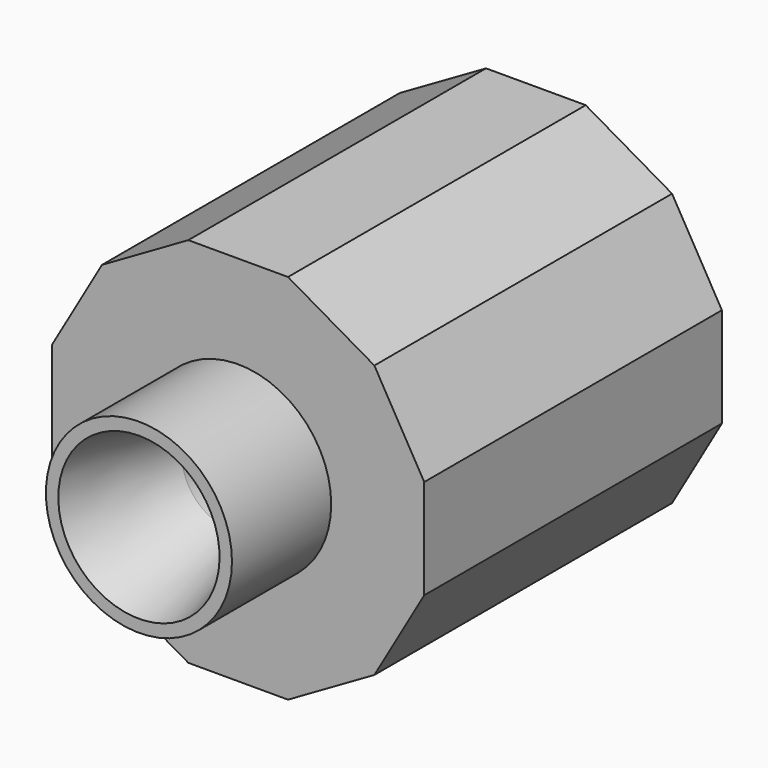
from build123d import *

# Parameters (mm, degrees)
F1_DEPTH = 76.2
F2_R     = 19.05
F3_DEPTH = 25.4
F4_R     = 10.16
F5_DEPTH = 101.6


with BuildPart() as f1:
    # F0 (on Front) → F1 (new body)
    with BuildSketch(Plane.XZ):
        Polygon((-38.1, 10.208864), (-38.1, -10.208864), (-27.891136, -27.891136), (-10.208864, -38.1), (10.208864, -38.1), (27.891136, -27.891136), (38.1, -10.208864), (38.1, 10.208864), (27.891136, 27.891136), (10.208864, 38.1), (-10.208864, 38.1), (-27.891136, 27.891136), align=None)
    extrude(amount=-F1_DEPTH)

    # F2 (on Front) → F3 (join)
    with BuildSketch(Plane.XZ):
        Circle(F2_R)
    extrude(amount=F3_DEPTH)

    # F4 (on face) → F5 (cut)
    with BuildSketch(Plane.XZ.offset(25.4)):
        Circle(F4_R)
    extrude(amount=-F5_DEPTH, mode=Mode.SUBTRACT)

    # F6 (on Right) → F7 (revolve, cut)
    with BuildSketch(Plane.YZ):
        Polygon((-25.4, 16.51), (-25.4, 0), (36.216159, 0), align=None)
    revolve(axis=Axis((0, 5.408079, 0), (0, -1, 0)), mode=Mode.SUBTRACT)


solid = f1.part
